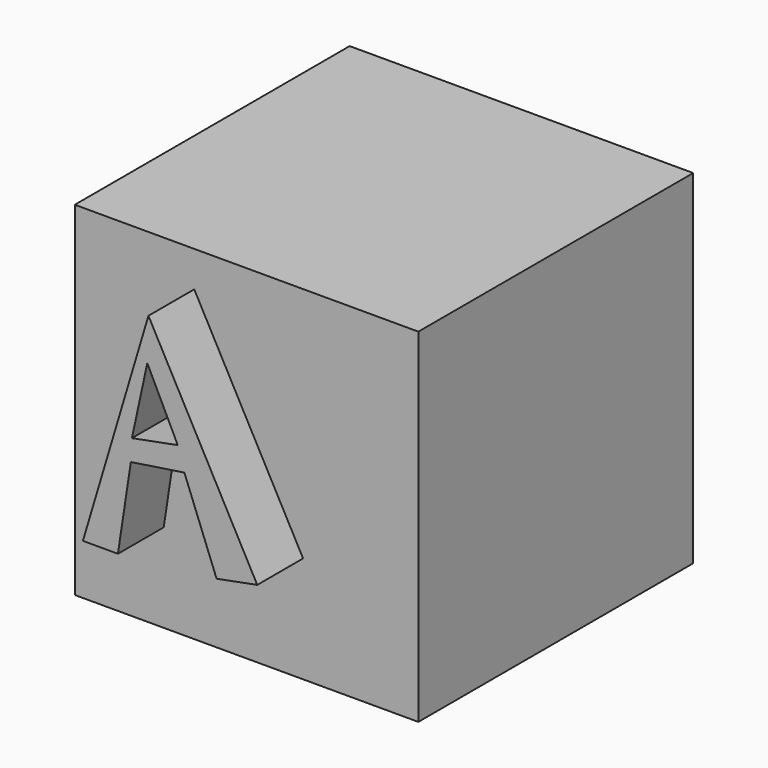
from build123d import *

# Parameters (mm, degrees)
F0_W     = 76.2
F0_H     = 76.2
F1_DEPTH = 76.2
F3_DEPTH = 12.7


with BuildPart() as f1:
    # F0 (on Front) → F1 (new body)
    with BuildSketch(Plane.XZ):
        with Locations((-1.006738, -6.150359)):
            Rectangle(F0_W, F0_H)
    extrude(amount=F1_DEPTH)

    # F2 (on face) → F3 (join)
    with BuildSketch(Plane.XZ.offset(76.2)):
        Polygon((-12.611179, 24.049623), (-27.142872, -24.627578), (-19.382371, -24.627578), (-16.510986, -5.769558), (-4.637417, -3.984643), (2.502245, -22.377034), (11.523983, -20.650868), align=None)
        Polygon((-6.111912, 0.904474), (-16.27817, -1.035652), (-12.863549, 14.718168), align=None, mode=Mode.SUBTRACT)
    extrude(amount=F3_DEPTH)


solid = f1.part
